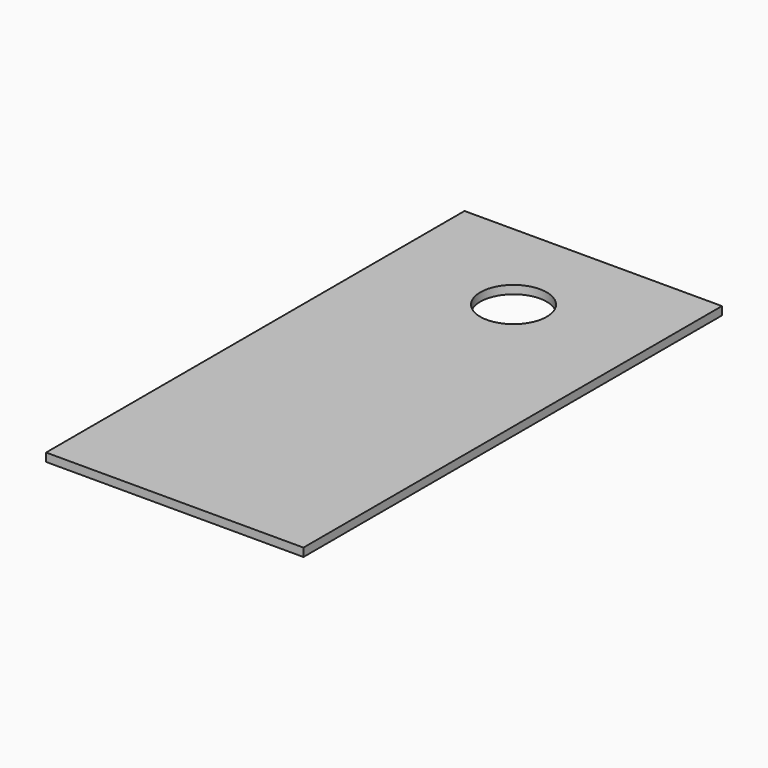
from build123d import *

# Parameters (mm, degrees)
F0_W     = 590.55
F0_H     = 19.05
F1_DEPTH = 1200.15
F3_D     = 152.4


with BuildPart() as f1:
    # F0 (on Front) → F1 (new body)
    with BuildSketch(Plane.XZ):
        Rectangle(F0_W, F0_H)
    extrude(amount=F1_DEPTH)

    # F3 (through all)
    with Locations(Plane.XY.offset(9.525)):
        with Locations((0, -228.6)):
            Hole(F3_D / 2)


solid = f1.part
